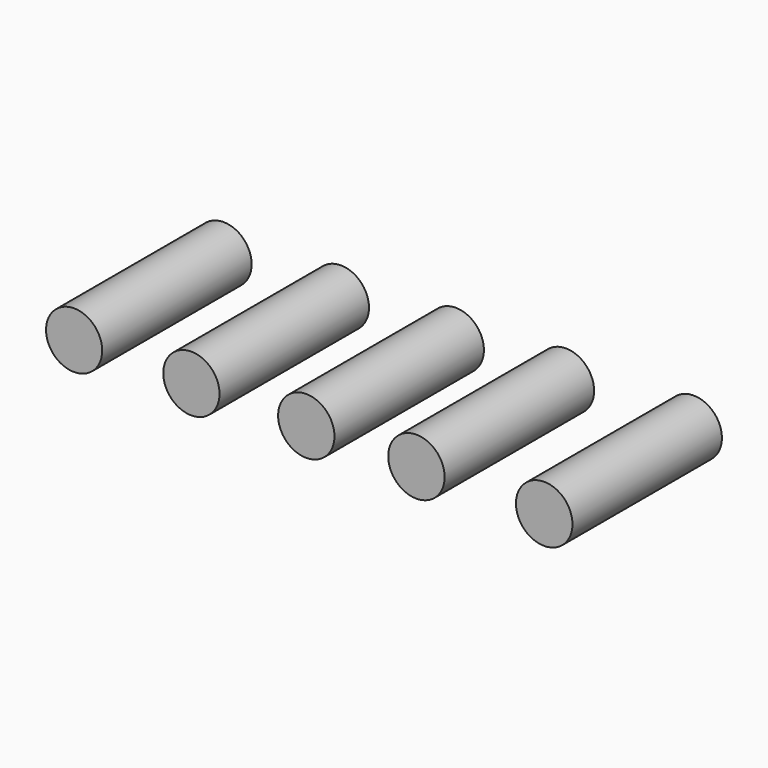
from build123d import *

# Parameters (mm, degrees)
F0_R     = 3.81635
F0_R_2   = 3.8227
F0_R_3   = 3.82905
F0_R_4   = 3.8354
F0_R_5   = 3.84175
F1_DEPTH = 25.4


with BuildPart() as f1:
    # F0 (on Front) → F1 (new body)
    with BuildSketch(Plane.XZ):
        with Locations((-31.566447, 0)):
            Circle(F0_R)
        with Locations((-15.621179, 0)):
            Circle(F0_R_2)
        Circle(F0_R_3)
        with Locations((14.972998, 0)):
            Circle(F0_R_4)
        with Locations((32.344271, 0)):
            Circle(F0_R_5)
    extrude(amount=F1_DEPTH)


solid = f1.part
